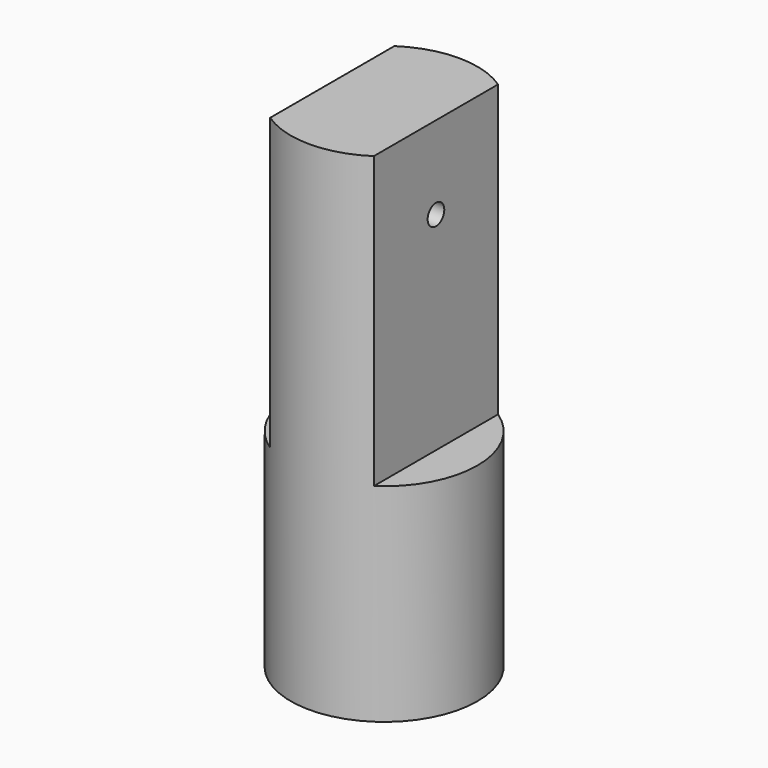
from build123d import *

# Parameters (mm, degrees)
F0_R     = 22.5
F1_DEPTH = 120
F3_DEPTH = 70
F4_R     = 20
F5_DEPTH = 35
F8_D     = 5


with BuildPart() as f1:
    # F0 (on Top) → F1 (new body)
    with BuildSketch(Plane.XY):
        Circle(F0_R)
    extrude(amount=F1_DEPTH)

    # F2 (on face) → F3 (cut)
    with BuildSketch(Plane.XY.offset(120)):
        with BuildLine():
            Line((-12.5, -18.708287), (-12.5, 18.708287))
            ThreePointArc((-12.5, 18.708287), (-22.5, 0), (-12.5, -18.708287))
        make_face()
        with BuildLine():
            ThreePointArc((22.5, 0), (19.843135, 10.606602), (12.5, 18.708287))
            Line((12.5, 18.708287), (12.5, -18.708287))
            ThreePointArc((12.5, -18.708287), (19.843135, -10.606602), (22.5, 0))
        make_face()
    extrude(amount=-F3_DEPTH, mode=Mode.SUBTRACT)

    # F4 (on face) → F5 (cut)
    with BuildSketch(Plane(origin=(0, 0, 0), x_dir=(1, 0, 0), z_dir=(0, 0, -1))):
        Circle(F4_R)
    extrude(amount=-F5_DEPTH, mode=Mode.SUBTRACT)

    # F8 (through all)
    with Locations(Plane.YZ.offset(22.5)):
        with Locations((0, 100)):
            Hole(F8_D / 2)


solid = f1.part
